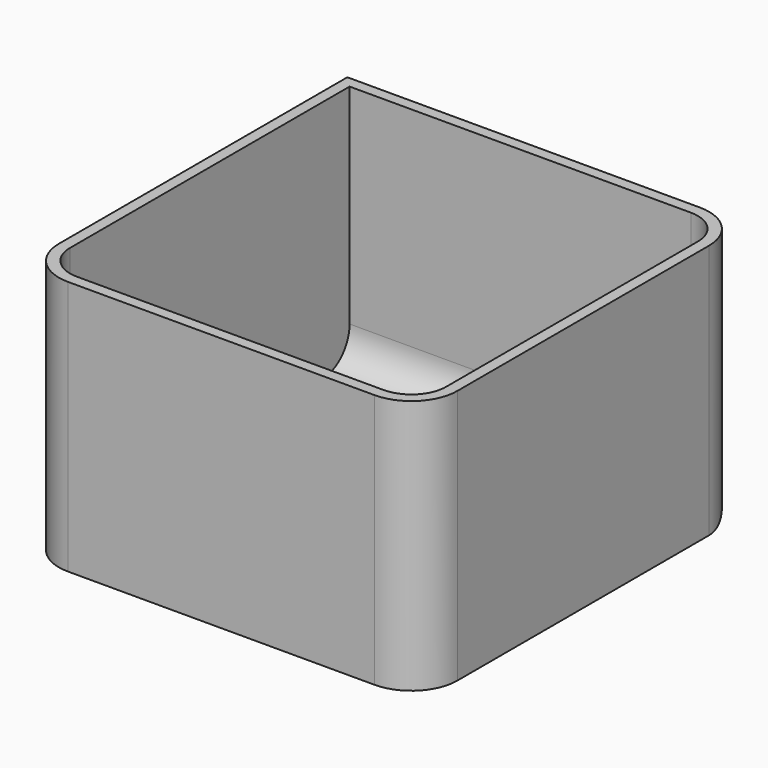
from build123d import *

# Parameters (mm, degrees)
F0_W     = 90.379902
F0_H     = 57.843138
F1_DEPTH = 92.202
F2_R     = 10.424574
F3_T     = -2.54


with BuildPart() as f1:
    # F0 (on Front) → F1 (new body)
    with BuildSketch(Plane.XZ):
        Rectangle(F0_W, F0_H)
    extrude(amount=F1_DEPTH)

    # F2
    f2_edges = [f1.edges().sort_by_distance(p)[0] for p in [
        (45.189951, -92.202, 0),
        (-45.189951, -92.202, 0),
        (45.189951, 0, 0),
        (0, 0, -28.921569),
    ]]
    fillet(f2_edges, radius=F2_R)

    # F3
    f3_openings = [f1.faces().sort_by_distance(p)[0] for p in [
        (-0.120967, -45.977462, 28.921569),
    ]]
    offset(amount=F3_T, openings=f3_openings)


solid = f1.part
